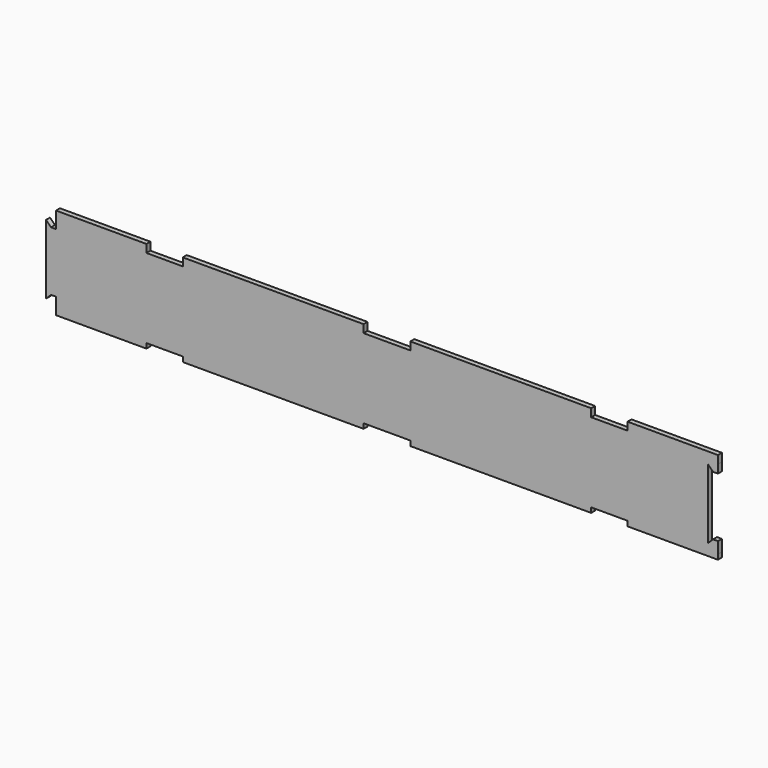
from build123d import *

# Parameters (mm, degrees)
F0_W     = 424.019751
F0_H     = 50.8
F1_DEPTH = 3.175
F2_W     = 57.9247
F2_H     = 5.08
F2_W_2   = 115.8494
F2_H_2   = 3.1496
F3_DEPTH = 3.175
F5_DEPTH = 3.175
F6_DEPTH = 3.176


with BuildPart() as f1:
    # F0 (on Front) → F1 (new body)
    with BuildSketch(Plane.XZ):
        with Locations((212.009875, 25.4)):
            Rectangle(F0_W, F0_H)
    extrude(amount=F1_DEPTH)

    # F2 (on face) → F3 (join)
    with BuildSketch(Plane.XZ.offset(3.175)):
        with Locations((28.96235, 53.34)):
            Rectangle(F2_W, F2_H)
        with Locations((139.123344, 53.34)):
            Rectangle(F2_W_2, F2_H)
        with Locations((284.896408, 53.34)):
            Rectangle(F2_W_2, F2_H)
        with Locations((395.057401, 53.34)):
            Rectangle(F2_W, F2_H)
        with Locations((28.96235, -1.5748)):
            Rectangle(F2_W, F2_H_2)
        with Locations((139.123344, -1.5748)):
            Rectangle(F2_W_2, F2_H_2)
        with Locations((284.896408, -1.5748)):
            Rectangle(F2_W_2, F2_H_2)
        with Locations((395.057401, -1.5748)):
            Rectangle(F2_W, F2_H_2)
    extrude(amount=-F3_DEPTH)

    # F4 (on face) → F5 (join)
    with BuildSketch(Plane.XZ.offset(3.175)):
        Polygon((0, 7.3152), (0, 45.4152), (-3.175, 45.4152), (-6.35, 48.5902), (-6.35, 4.1402), (-3.175, 7.3152), align=None)
    extrude(amount=-F5_DEPTH)

    # F4 (on face) → F6 (cut, through all)
    with BuildSketch(Plane.XZ.offset(3.175)):
        Polygon((424.019751, 7.3152), (424.019751, 45.4152), (420.844751, 45.4152), (417.669751, 48.5902), (417.669751, 4.1402), (420.844751, 7.3152), align=None)
    extrude(amount=-F6_DEPTH, mode=Mode.SUBTRACT)


solid = f1.part
